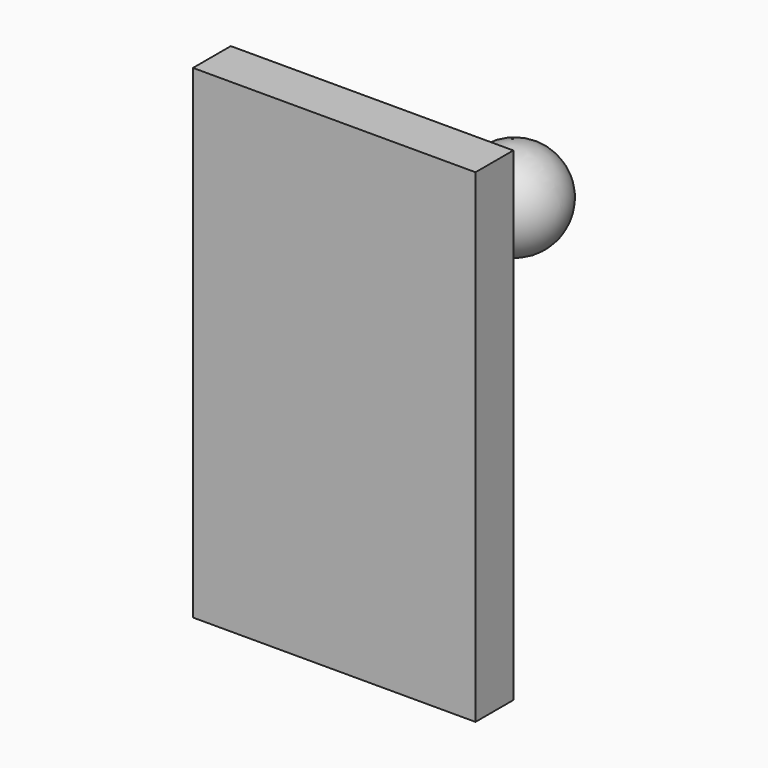
from build123d import *

# Parameters (mm, degrees)
F3_W     = 151.943825
F3_H     = 260.261253
F4_DEPTH = 25.4


with BuildPart() as f1:
    # F0 (on Front) → F1 (revolve)
    with BuildSketch(Plane.XZ):
        with BuildLine():
            Line((-25.4, 0), (25.4, 0))
            ThreePointArc((25.4, 0), (0, 25.4), (-25.4, 0))
        make_face()
    revolve(axis=Axis((0, 0, 0), (1, 0, 0)))


with BuildPart() as f4:
    # F3 (on offset) → F4 (new body)
    with BuildSketch(Plane.XZ.offset(50.8)):
        with Locations((-36.003179, -74.137583)):
            Rectangle(F3_W, F3_H)
    extrude(amount=F4_DEPTH)


solid = Compound([f1.part, f4.part])
